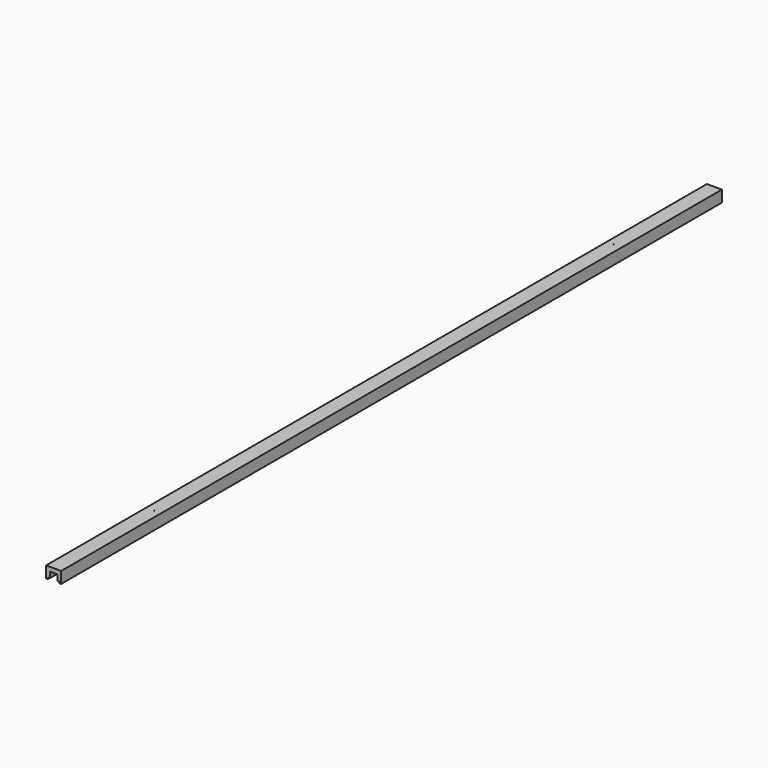
from build123d import *

# Parameters (mm, degrees)
F0_W     = 3.9
F0_H     = 3
F0_W_2   = 4.1
F0_H_2   = 5.1741511822
F1_DEPTH = 2000
F3_D     = 2
F4_W     = 32.8
F4_H     = 100
F5_DEPTH = 25.0010018114


with BuildPart() as f1:
    # F0 (on Front) → F1 (new body)
    with BuildSketch(Plane.XZ):
        with Locations((14.5, 1.7925839761)):
            Rectangle(F0_W, F0_H)
        Polygon((-16.35, 25.2925857875), (-16.35, 0.2925839761), (-12.45, 0.2925839761), (-12.45, 3.2925839761), (-12.45, 8.4667351583), (-8.35, 8.4667351583), (-8.35, 16.0925839761), (8.45, 16.0925839761), (8.45, 8.4667351583), (12.55, 8.4667351583), (12.55, 3.2925839761), (16.45, 3.2925839761), (16.45, 25.2925857875), align=None)
        with Locations((-10.4, 5.8796595672)):
            Rectangle(F0_W_2, F0_H_2)
        with Locations((10.5, 5.8796595672)):
            Rectangle(F0_W_2, F0_H_2)
    extrude(amount=F1_DEPTH)

    # F3 (through all)
    with Locations(Plane.XY.offset(25.2925857875)):
        with Locations((-1.05, -373), (1.15, -1627)):
            Hole(F3_D / 2)

    # F4 (on face) → F5 (cut, through all)
    with BuildSketch(Plane.XY.offset(25.2925857875)):
        with Locations((0.05, -50)):
            Rectangle(F4_W, F4_H)
        with Locations((0.05, -1950)):
            Rectangle(F4_W, F4_H)
    extrude(amount=-F5_DEPTH, mode=Mode.SUBTRACT)


solid = f1.part
